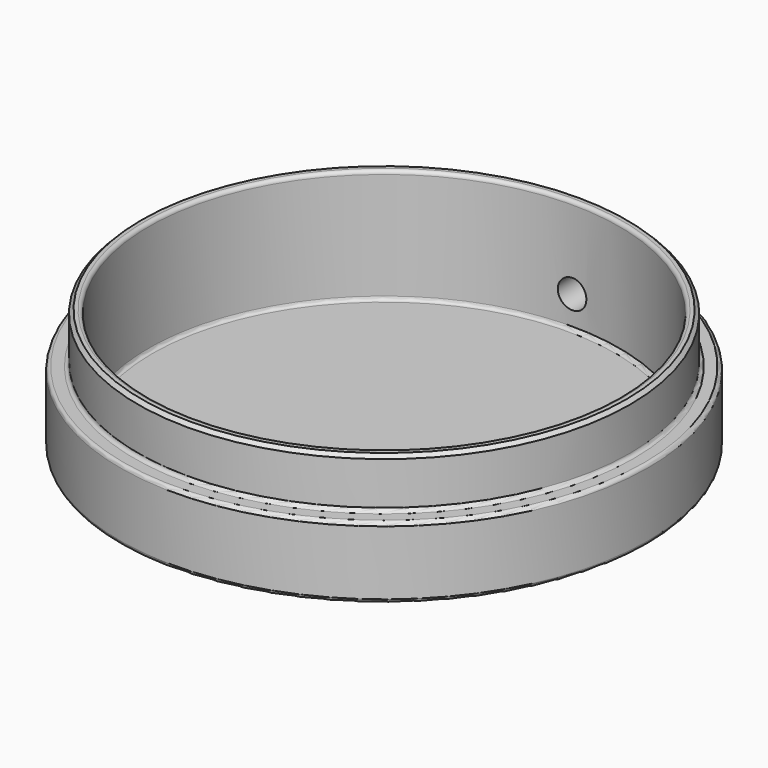
from build123d import *

# Parameters (mm, degrees)
SKETCH_R        = 34.5
PAD_DEPTH       = 7
SKETCH001_R     = 37
PAD001_DEPTH    = 10
SKETCH002_R     = 33
POCKET_DEPTH    = 16
SKETCH003_R     = 2
POCKET001_DEPTH = 80
FILLET_R        = 0.5
CHAMFER_SIZE    = 0.5


with BuildPart() as part:
    # Sketch → Pad (new body)
    with BuildSketch(Plane.XY):
        Circle(SKETCH_R)
    extrude(amount=PAD_DEPTH)

    # Sketch001 (on Face2 of Pad) → Pad001 (join)
    with BuildSketch(Plane(origin=(0, 0, 0), x_dir=(1, 0, 0), z_dir=(0, 0, -1))):
        Circle(SKETCH001_R)
    extrude(amount=PAD001_DEPTH)

    # Sketch002 (on Face5 of Pad001) → Pocket (cut)
    with BuildSketch(Plane.XY.offset(7)):
        Circle(SKETCH002_R)
    extrude(amount=-POCKET_DEPTH, mode=Mode.SUBTRACT)

    # Sketch003 → Pocket001 (cut)
    with BuildSketch(Plane.XZ):
        with Locations((0, -4.5)):
            Circle(SKETCH003_R)
    extrude(amount=-POCKET001_DEPTH, mode=Mode.SUBTRACT)

    # Fillet
    fillet_edges = [part.edges().sort_by_distance(p)[0] for p in [
        (-33, 0, 7),
        (-34.5, 0, 0),
        (-37, 0, 0),
        (-37, 0, -10),
        (-33, 0, -9),
    ]]
    fillet(fillet_edges, radius=FILLET_R)

    # Chamfer
    chamfer_edges = [part.edges().sort_by_distance(p)[0] for p in [
        (-34.5, 0, 7),
    ]]
    chamfer(chamfer_edges, length=CHAMFER_SIZE)


solid = part.part
